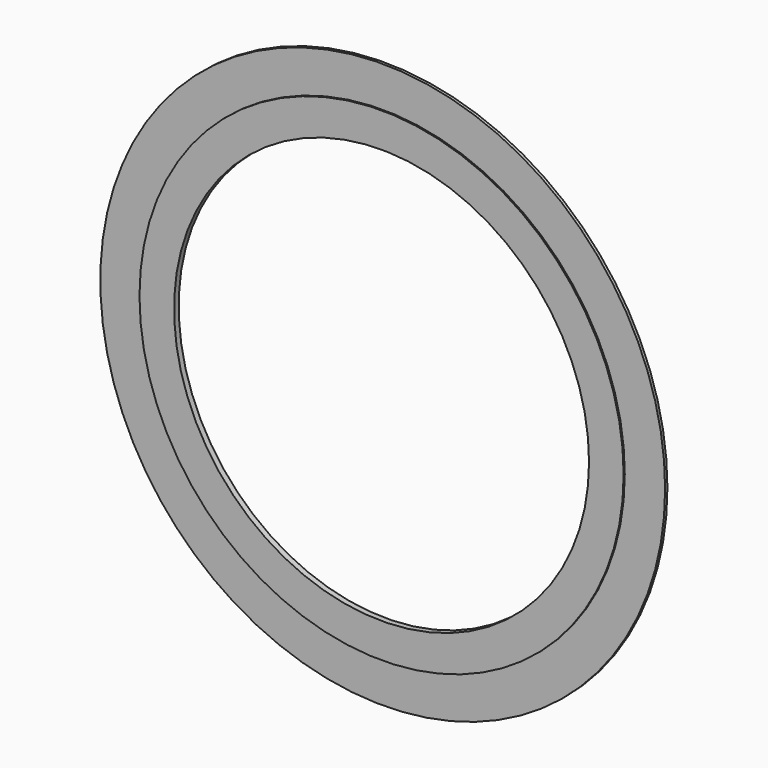
from build123d import *

# Parameters (mm, degrees)
F0_R     = 155.575
F0_R_2   = 114.3
F1_DEPTH = 1.5875
F4_R     = 133.35
F4_R_2   = 114.3
F5_DEPTH = 1.5875
F6_R     = 133.35
F6_R_2   = 114.3
F7_DEPTH = 0.79375


with BuildPart() as f1:
    # F0 (on Front) → F1 (new body)
    with BuildSketch(Plane.XZ):
        Circle(F0_R)
        Circle(F0_R_2, mode=Mode.SUBTRACT)
    extrude(amount=F1_DEPTH)

    # F4 (on offset) → F5 (join)
    with BuildSketch(Plane.XZ.offset(0.79375)):
        Circle(F4_R)
        Circle(F4_R_2, mode=Mode.SUBTRACT)
    extrude(amount=-F5_DEPTH)

    # F6 (on offset) → F7 (join)
    with BuildSketch(Plane.XZ.offset(1.5875)):
        Circle(F6_R)
        Circle(F6_R_2, mode=Mode.SUBTRACT)
    extrude(amount=F7_DEPTH)


solid = f1.part
